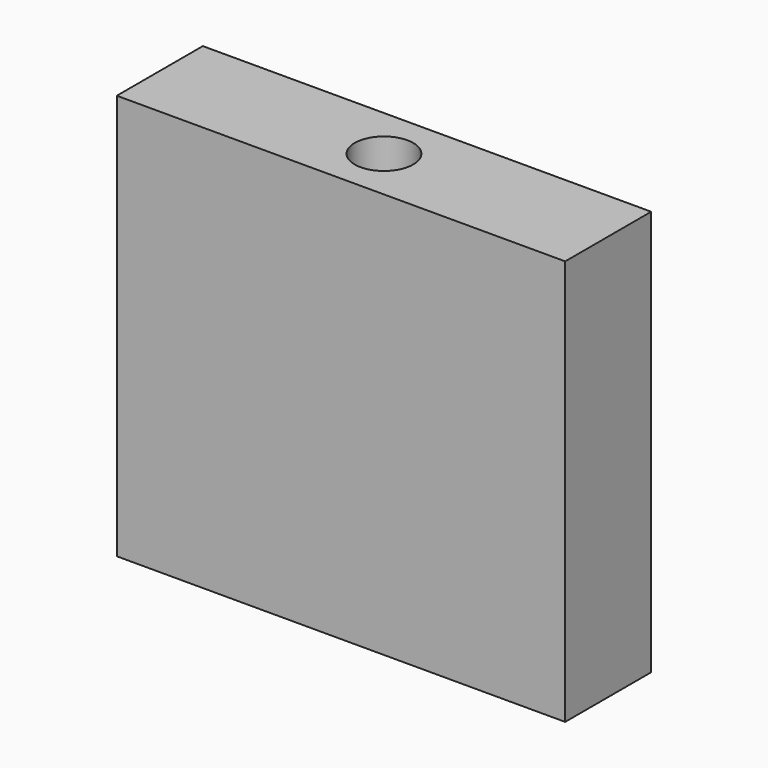
from build123d import *

# Parameters (mm, degrees)
F0_W     = 26.486095041
F0_H     = 23.9506205544
F1_DEPTH = 6.35
F3_D     = 3.4544
F3_DEPTH = 18.25625
F3_TIP   = 1.0378064612


with BuildPart() as f1:
    # F0 (on Front) → F1 (new body)
    with BuildSketch(Plane.XZ):
        with Locations((2.1104346961, 3.0525061302)):
            Rectangle(F0_W, F0_H)
    extrude(amount=F1_DEPTH)

    # F3
    with Locations(Plane.XY.offset(15.0278164074)):
        with Locations((2.1104346961, -3.175)):
            Hole(F3_D / 2, depth=F3_DEPTH)
            with Locations((0, 0, -(F3_DEPTH + F3_TIP / 2))):  # 118° drill point
                Cone(0, F3_D / 2, F3_TIP, mode=Mode.SUBTRACT)


solid = f1.part
